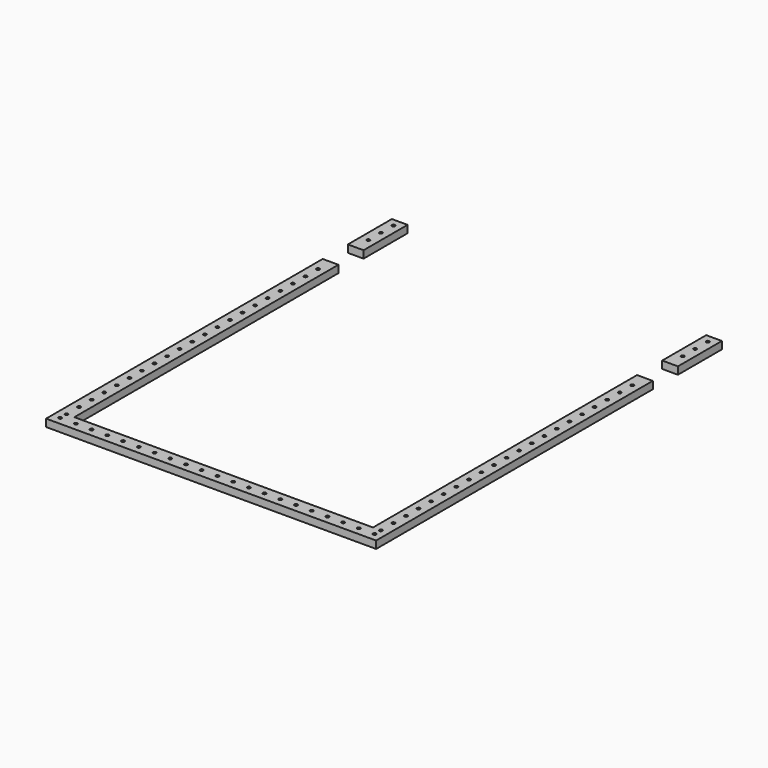
from build123d import *

# Parameters (mm, degrees)
F0_W     = 25.4
F0_H     = 88.9
F0_R     = 2.5527
F1_DEPTH = 12


with BuildPart() as f1:
    # F0 (on Top) → F1 (new body)
    with BuildSketch(Plane.XY):
        with Locations((-254, 1009.65)):
            Rectangle(F0_W, F0_H)
        with Locations((-254, 990.6)):
            Circle(F0_R, mode=Mode.SUBTRACT)
        with Locations((-254, 1016)):
            Circle(F0_R, mode=Mode.SUBTRACT)
        with Locations((-254, 1041.4)):
            Circle(F0_R, mode=Mode.SUBTRACT)
        with Locations((254, 1009.65)):
            Rectangle(F0_W, F0_H)
        with Locations((254, 990.6)):
            Circle(F0_R, mode=Mode.SUBTRACT)
        with Locations((254, 1016)):
            Circle(F0_R, mode=Mode.SUBTRACT)
        with Locations((254, 1041.4)):
            Circle(F0_R, mode=Mode.SUBTRACT)
        Polygon((-241.3, 914.4), (-266.7, 914.4), (-266.7, 355.6), (266.7, 355.6), (266.7, 914.4), (241.3, 914.4), (241.3, 381), (-241.3, 381), align=None)
        with Locations((-254, 368.3)):
            Circle(F0_R, mode=Mode.SUBTRACT)
        with Locations((-254, 381)):
            Circle(F0_R, mode=Mode.SUBTRACT)
        with Locations((-254, 406.4)):
            Circle(F0_R, mode=Mode.SUBTRACT)
        with Locations((-228.6, 368.3)):
            Circle(F0_R, mode=Mode.SUBTRACT)
        with Locations((-203.2, 368.3)):
            Circle(F0_R, mode=Mode.SUBTRACT)
        with Locations((-177.8, 368.3)):
            Circle(F0_R, mode=Mode.SUBTRACT)
        with Locations((-254, 431.8)):
            Circle(F0_R, mode=Mode.SUBTRACT)
        with Locations((-254, 457.2)):
            Circle(F0_R, mode=Mode.SUBTRACT)
        with Locations((-254, 482.6)):
            Circle(F0_R, mode=Mode.SUBTRACT)
        with Locations((-152.4, 368.3)):
            Circle(F0_R, mode=Mode.SUBTRACT)
        with Locations((-127, 368.3)):
            Circle(F0_R, mode=Mode.SUBTRACT)
        with Locations((-101.6, 368.3)):
            Circle(F0_R, mode=Mode.SUBTRACT)
        with Locations((-76.2, 368.3)):
            Circle(F0_R, mode=Mode.SUBTRACT)
        with Locations((-50.8, 368.3)):
            Circle(F0_R, mode=Mode.SUBTRACT)
        with Locations((-25.4, 368.3)):
            Circle(F0_R, mode=Mode.SUBTRACT)
        with Locations((-254, 508)):
            Circle(F0_R, mode=Mode.SUBTRACT)
        with Locations((-254, 533.4)):
            Circle(F0_R, mode=Mode.SUBTRACT)
        with Locations((-254, 558.8)):
            Circle(F0_R, mode=Mode.SUBTRACT)
        with Locations((-254, 584.2)):
            Circle(F0_R, mode=Mode.SUBTRACT)
        with Locations((-254, 609.6)):
            Circle(F0_R, mode=Mode.SUBTRACT)
        with Locations((-254, 635)):
            Circle(F0_R, mode=Mode.SUBTRACT)
        with Locations((-254, 660.4)):
            Circle(F0_R, mode=Mode.SUBTRACT)
        with Locations((-254, 685.8)):
            Circle(F0_R, mode=Mode.SUBTRACT)
        with Locations((0, 368.3)):
            Circle(F0_R, mode=Mode.SUBTRACT)
        with Locations((25.4, 368.3)):
            Circle(F0_R, mode=Mode.SUBTRACT)
        with Locations((50.8, 368.3)):
            Circle(F0_R, mode=Mode.SUBTRACT)
        with Locations((76.2, 368.3)):
            Circle(F0_R, mode=Mode.SUBTRACT)
        with Locations((101.6, 368.3)):
            Circle(F0_R, mode=Mode.SUBTRACT)
        with Locations((127, 368.3)):
            Circle(F0_R, mode=Mode.SUBTRACT)
        with Locations((152.4, 368.3)):
            Circle(F0_R, mode=Mode.SUBTRACT)
        with Locations((177.8, 368.3)):
            Circle(F0_R, mode=Mode.SUBTRACT)
        with Locations((203.2, 368.3)):
            Circle(F0_R, mode=Mode.SUBTRACT)
        with Locations((228.6, 368.3)):
            Circle(F0_R, mode=Mode.SUBTRACT)
        with Locations((254, 368.3)):
            Circle(F0_R, mode=Mode.SUBTRACT)
        with Locations((254, 381)):
            Circle(F0_R, mode=Mode.SUBTRACT)
        with Locations((254, 406.4)):
            Circle(F0_R, mode=Mode.SUBTRACT)
        with Locations((254, 431.8)):
            Circle(F0_R, mode=Mode.SUBTRACT)
        with Locations((254, 457.2)):
            Circle(F0_R, mode=Mode.SUBTRACT)
        with Locations((254, 482.6)):
            Circle(F0_R, mode=Mode.SUBTRACT)
        with Locations((254, 508)):
            Circle(F0_R, mode=Mode.SUBTRACT)
        with Locations((254, 533.4)):
            Circle(F0_R, mode=Mode.SUBTRACT)
        with Locations((254, 558.8)):
            Circle(F0_R, mode=Mode.SUBTRACT)
        with Locations((254, 584.2)):
            Circle(F0_R, mode=Mode.SUBTRACT)
        with Locations((254, 609.6)):
            Circle(F0_R, mode=Mode.SUBTRACT)
        with Locations((254, 635)):
            Circle(F0_R, mode=Mode.SUBTRACT)
        with Locations((254, 660.4)):
            Circle(F0_R, mode=Mode.SUBTRACT)
        with Locations((254, 685.8)):
            Circle(F0_R, mode=Mode.SUBTRACT)
        with Locations((-254, 711.2)):
            Circle(F0_R, mode=Mode.SUBTRACT)
        with Locations((-254, 736.6)):
            Circle(F0_R, mode=Mode.SUBTRACT)
        with Locations((-254, 762)):
            Circle(F0_R, mode=Mode.SUBTRACT)
        with Locations((-254, 787.4)):
            Circle(F0_R, mode=Mode.SUBTRACT)
        with Locations((-254, 812.8)):
            Circle(F0_R, mode=Mode.SUBTRACT)
        with Locations((-254, 838.2)):
            Circle(F0_R, mode=Mode.SUBTRACT)
        with Locations((-254, 863.6)):
            Circle(F0_R, mode=Mode.SUBTRACT)
        with Locations((-254, 889)):
            Circle(F0_R, mode=Mode.SUBTRACT)
        with Locations((254, 711.2)):
            Circle(F0_R, mode=Mode.SUBTRACT)
        with Locations((254, 736.6)):
            Circle(F0_R, mode=Mode.SUBTRACT)
        with Locations((254, 762)):
            Circle(F0_R, mode=Mode.SUBTRACT)
        with Locations((254, 787.4)):
            Circle(F0_R, mode=Mode.SUBTRACT)
        with Locations((254, 812.8)):
            Circle(F0_R, mode=Mode.SUBTRACT)
        with Locations((254, 838.2)):
            Circle(F0_R, mode=Mode.SUBTRACT)
        with Locations((254, 863.6)):
            Circle(F0_R, mode=Mode.SUBTRACT)
        with Locations((254, 889)):
            Circle(F0_R, mode=Mode.SUBTRACT)
    extrude(amount=F1_DEPTH)


solid = f1.part
